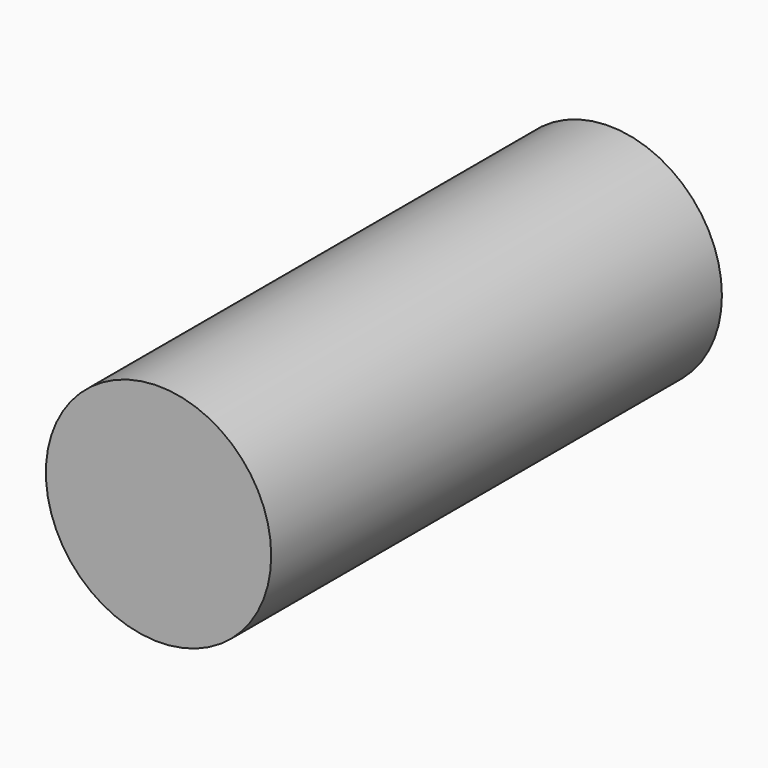
from build123d import *

# Parameters (mm, degrees)
F0_R     = 25.4
F1_DEPTH = 63.5


with BuildPart() as f1:
    # F0 (on Front) → F1 (new body, symmetric)
    with BuildSketch(Plane.XZ):
        Circle(F0_R)
        Circle(F0_R)
    extrude(amount=F1_DEPTH, both=True)


solid = f1.part
